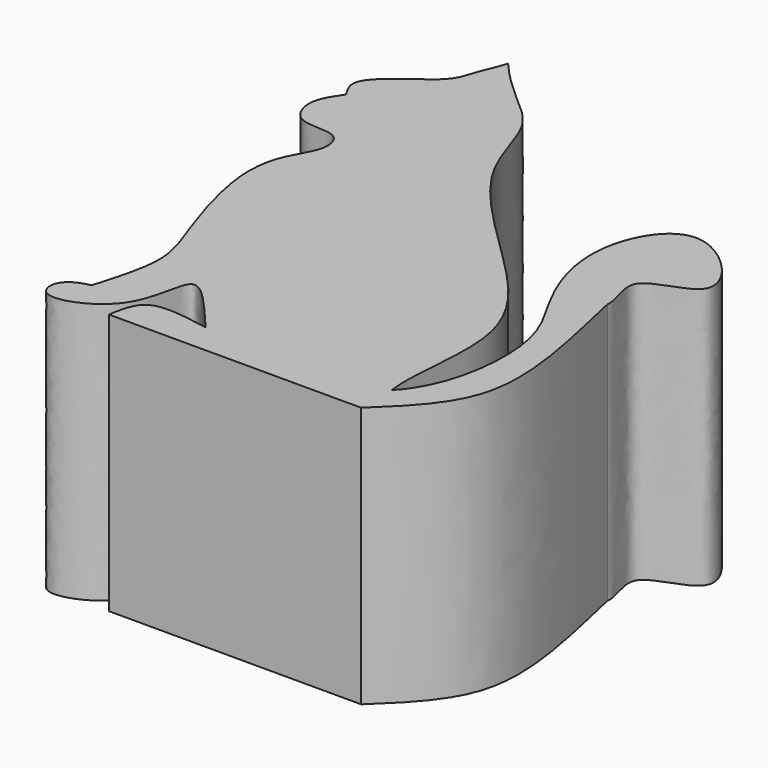
from build123d import *

# Parameters (mm, degrees)
F1_DEPTH = 30


with BuildPart() as f1:
    # F0 (on Top) → F1 (new body)
    with BuildSketch(Plane.XY):
        with BuildLine():
            add(Edge.make_bspline(
                [(15.2126090439, -27.9459109831), (14.6302346405, -24.4401263519), (17.5453744334, -12.8728492288), (7.4430002864, -1.7743724806), (-5.3827097072, 9.924738725), (-6.7677384858, 19.493628583), (-11.6796890809, 23.4148932455), (-14.6507735768, 26.2142597574), (-16.253978014, 28.082087636)],
                knots=[0, 0, 0, 0, 0.1893470589, 0.3842571905, 0.5955426944, 0.7472004443, 0.8688083877, 1, 1, 1, 1], degree=3))
            add(Edge.make_bspline(
                [(-16.253978014, 28.082087636), (-16.5316297202, 27.1231630234), (-17.3983989165, 25.521319182), (-17.9990447778, 22.4942783295), (-21.2452314766, 20.3673819069), (-25.583039455, 16.937715348), (-24.3110716683, 15.079552676), (-23.860970512, 14.3191376701)],
                knots=[0, 0, 0, 0, 0.1840240602, 0.367175099, 0.585753566, 0.8266092252, 1, 1, 1, 1], degree=3))
            add(Edge.make_bspline(
                [(-23.860970512, 14.3191376701), (-24.5567367381, 13.3218128893), (-25.9308728954, 11.353993167), (-24.3780221029, 7.1177745688), (-19.4356074733, 8.2519563991), (-18.4924440997, 4.7167056863), (-21.0202846999, 1.4446507411), (-21.9372948904, -4.3568825102), (-18.7558896461, -14.6359845676), (-16.0991116385, -20.8386377456), (-17.7278209811, -26.1135015904), (-18.5355897993, -28.8882032037)],
                knots=[0, 0, 0, 0, 0.0918832375, 0.1824110747, 0.2809577077, 0.3593522625, 0.4558009497, 0.5732454783, 0.7335923675, 0.8605051416, 1, 1, 1, 1], degree=3))
            add(Edge.make_bspline(
                [(-18.5355897993, -28.8882032037), (-20.1703394641, -29.1599279246), (-21.8206121525, -30.5252894751), (-20.7463817834, -33.9640711365), (-12.2346682093, -30.59233512), (-12.6478642348, -21.1788555483), (-8.4219767597, -25.2498196081), (-6.5793712658, -27.5637234568), (-5.4187178612, -28.8882032037)],
                knots=[0, 0, 0, 0, 0.1457426163, 0.2581522415, 0.4713260528, 0.6754219557, 0.819388587, 1, 1, 1, 1], degree=3))
            add(Edge.make_bspline(
                [(-5.4187178612, -28.8882032037), (-6.7505964344, -28.6411812498), (-9.2134922758, -28.1656267058), (-12.9977989942, -28.3347949782), (-13.5279602045, -30.8750292743), (-13.7724792585, -32.3475711048)],
                knots=[0, 0, 0, 0, 0.3512428288, 0.6620903732, 1, 1, 1, 1], degree=3))
            Line((-13.7724792585, -32.3475711048), (15.2126090439, -32.3475711048))
            add(Edge.make_bspline(
                [(15.2126090439, -32.3475711048), (18.1666397433, -29.5362332997), (24.8673138974, -23.2426780381), (21.6645931943, -10.8354061702), (19.9047015818, -2.8713940899)],
                knots=[0, 0, 0, 0, 0.4314248753, 1, 1, 1, 1], degree=3))
            add(Edge.make_bspline(
                [(19.9047015818, -2.8713940899), (20.1022831989, -1.4551037554), (17.0032045605, 3.1999730856), (29.2047171027, 3.799997813), (17.6387698464, 16.0319230536), (11.0711797047, 5.3303157909), (14.8729461275, -5.5696034115), (20.1563061147, -12.3081436364), (18.7402328502, -24.4401263519), (15.2126090439, -27.9459109831)],
                knots=[0, 0, 0, 0, 0.1049319581, 0.2265463651, 0.3738011742, 0.5130448824, 0.6721162067, 0.8133544897, 1, 1, 1, 1], degree=3))
        make_face()
    extrude(amount=F1_DEPTH)


solid = f1.part
